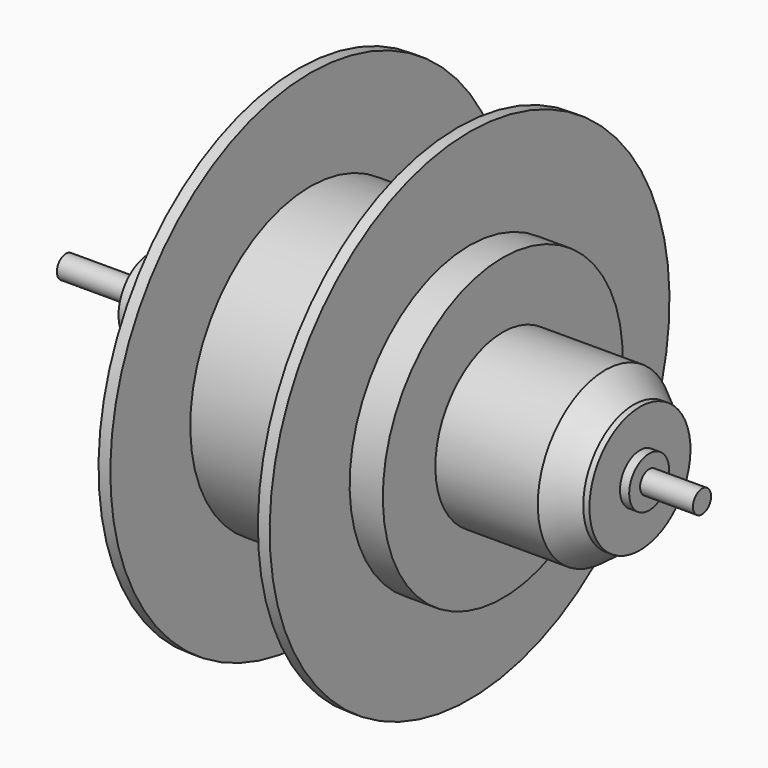
from build123d import *

# Parameters (mm, degrees)
F0_R     = 3.175
F1_DEPTH = 88.9


with BuildPart() as f1:
    # F0 (on Right) → F1 (new body, symmetric)
    with BuildSketch(Plane.YZ):
        Circle(F0_R)
    extrude(amount=F1_DEPTH, both=True)

    # F2 (on Front) → F3 (revolve)
    with BuildSketch(Plane.XZ):
        Polygon((-65.5721798539, 10.789279826), (-65.5721798539, 3.175), (74.1278201461, 3.175), (74.1278201461, 6.985), (71.5452923138, 6.985), (71.5452923138, 17.653), (69.8267191484, 17.653), (61.8413901258, 23.561832648), (33.2043394446, 23.561832648), (33.2043394446, 41.91), (23.9228336141, 41.91), (23.9228336141, 69.85), (20.6208336141, 69.85), (20.6208336141, 41.91), (-20.6208336141, 41.91), (-20.6208336141, 69.85), (-23.9228336141, 69.85), (-23.9228336141, 41.91), (-33.2043394446, 41.91), (-33.2043394446, 20.32), (-36.4167802036, 20.32), (-37.4993234873, 19.685), (-43.0255383253, 19.685), (-43.0255383253, 10.789279826), align=None)
    revolve(axis=Axis((54.40691486, 0, 0), (1, 0, 0)))


solid = f1.part
